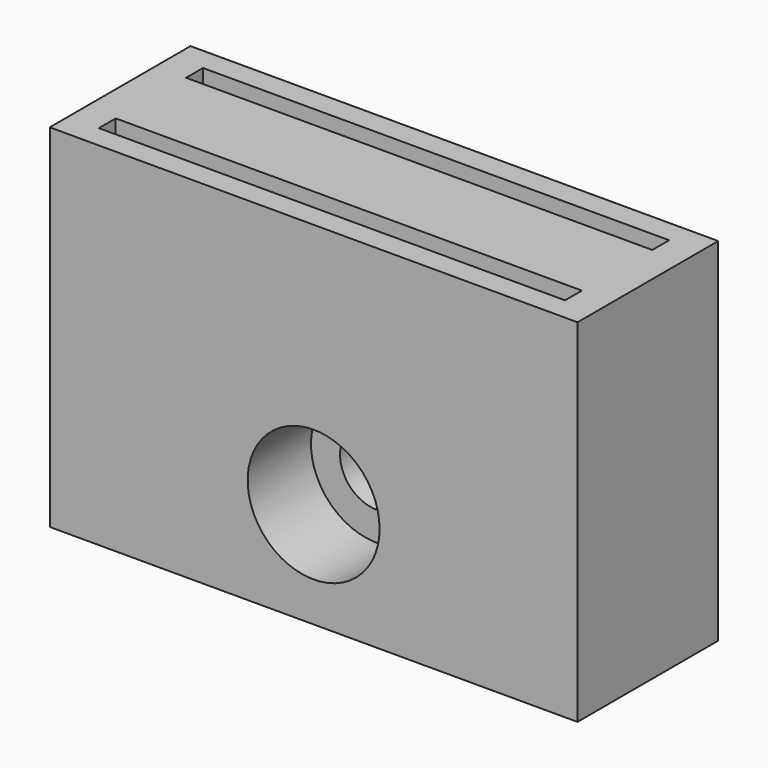
from build123d import *

# Parameters (mm, degrees)
F0_W     = 30
F0_H     = 10
F1_DEPTH = 20
F2_R     = 2.1
F3_DEPTH = 10
F4_W     = 26.5
F4_H     = 1.2
F5_DEPTH = 10
F6_R     = 3.75
F7_DEPTH = 4.5


with BuildPart() as f1:
    # F0 (on Top) → F1 (new body)
    with BuildSketch(Plane.XY):
        Rectangle(F0_W, F0_H)
    extrude(amount=F1_DEPTH)

    # F2 (on face) → F3 (cut, through all)
    with BuildSketch(Plane.XZ.offset(5)):
        with Locations((0, 6)):
            Circle(F2_R)
    extrude(amount=-F3_DEPTH, mode=Mode.SUBTRACT)

    # F4 (on face) → F5 (cut)
    with BuildSketch(Plane.XY.offset(20)):
        with Locations((0, 3.1)):
            Rectangle(F4_W, F4_H)
        with Locations((0, -3.1)):
            Rectangle(F4_W, F4_H)
    extrude(amount=-F5_DEPTH, mode=Mode.SUBTRACT)

    # F6 (on face) → F7 (cut)
    with BuildSketch(Plane.XZ.offset(5)):
        with Locations((0, 6)):
            Circle(F6_R)
    extrude(amount=-F7_DEPTH, mode=Mode.SUBTRACT)


solid = f1.part
